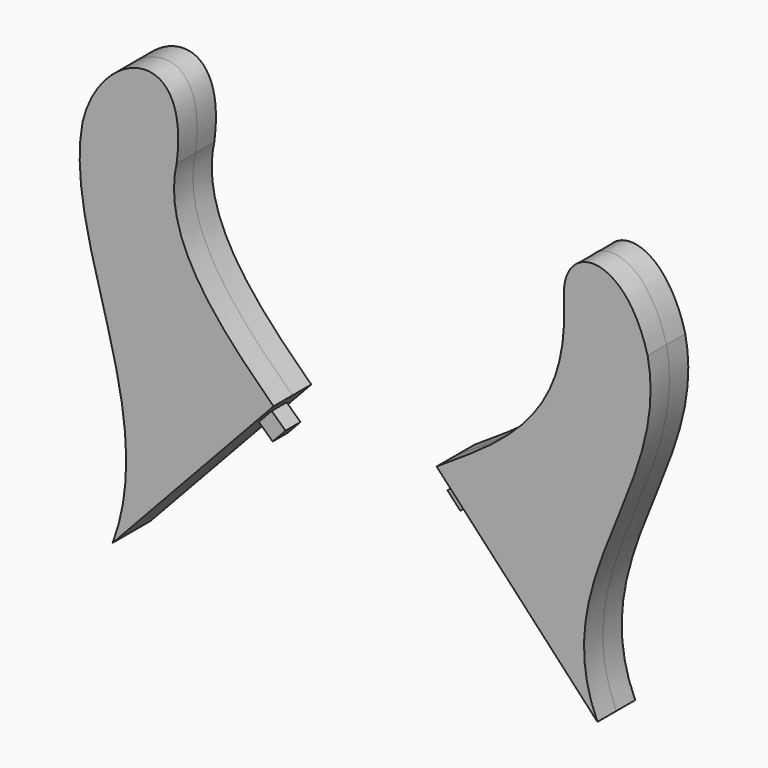
from build123d import *

# Parameters (mm, degrees)
F1_DEPTH = 3.175
F3_W     = 2.5146
F3_H     = 2.54
F4_DEPTH = 2.54
F6_W     = 2.4892
F6_H     = 2.54
F7_DEPTH = 2.54


with BuildPart() as f1:
    # F0 (on Front) → F1 (new body, symmetric)
    with BuildSketch(Plane.XZ):
        with BuildLine():
            add(Edge.make_bspline(
                [(-31.0533456504, 0), (-24.5187859982, 17.3532310873), (-37.9303842783, 33.8830426335), (-35.0979678333, 48.6308038235)],
                knots=[0, 0, 0, 0, 48.7987095026, 48.7987095026, 48.7987095026, 48.7987095026], degree=3))
            Line((-31.0533456504, 0), (-9.4017383467, 23.2221963037))
            add(Edge.make_bspline(
                [(-9.4017383467, 23.2221963037), (-16.6993923485, 30.2322339267), (-24.5547145605, 38.4201221168), (-22.4489457905, 47.7108769119)],
                knots=[0, 0, 0, 0, 27.7475242141, 27.7475242141, 27.7475242141, 27.7475242141], degree=3))
            add(Edge.make_bspline(
                [(-35.0979678333, 48.6308038235), (-32.6407961547, 58.7211176753), (-20.4517394304, 62.400829047), (-22.4489457905, 47.7108769119)],
                knots=[0, 0, 0, 0, 12.682429742, 12.682429742, 12.682429742, 12.682429742], degree=3))
        make_face()
    extrude(amount=F1_DEPTH, both=True)

    # F3 (on offset) → F4 (join)
    with BuildSketch(Plane(origin=(-16.6122141895, 0, 15.4886787354), x_dir=(0, 1, 0), z_dir=(0.7314077576, 0, -0.6819403875))):
        with Locations((0, 6.6961594334)):
            Rectangle(F3_W, F3_H)
    extrude(amount=F4_DEPTH)


with BuildPart() as f1b:
    # F0 (on Front) → F1, piece 2 (new body, symmetric)
    with BuildSketch(Plane.XZ):
        with BuildLine():
            Line((12.5494186591, 23.2221963037), (34.2010259628, 0))
            add(Edge.make_bspline(
                [(34.2010259628, 0), (26.9245896488, 15.9444343299), (44.1446974874, 30.0780516118), (40.9534983337, 45.6121340394)],
                knots=[0, 0, 0, 0, 46.1092469549, 46.1092469549, 46.1092469549, 46.1092469549], degree=3))
            add(Edge.make_bspline(
                [(29.6843722463, 48.6019067466), (29.1780382395, 55.9630095959), (37.9637293518, 56.8812638521), (40.9534983337, 45.6121340394)],
                knots=[0, 0, 0, 0, 11.6589855311, 11.6589855311, 11.6589855311, 11.6589855311], degree=3))
            add(Edge.make_bspline(
                [(12.5494186591, 23.2221963037), (21.4050151408, 29.0534161031), (30.4661523551, 34.1877490282), (29.6843722463, 48.6019067466)],
                knots=[0, 0, 0, 0, 30.6224809022, 30.6224809022, 30.6224809022, 30.6224809022], degree=3))
        make_face()
    extrude(amount=F1_DEPTH, both=True)

    # F6 (on offset) → F7 (join)
    with BuildSketch(Plane(origin=(18.2960887755, 0, 17.0586676721), x_dir=(0, -1, 0), z_dir=(-0.7314077576, 0, -0.6819403875))):
        with Locations((0, 4.5496291014)):
            Rectangle(F6_W, F6_H)
    extrude(amount=F7_DEPTH)


solid = Compound([f1.part, f1b.part])
